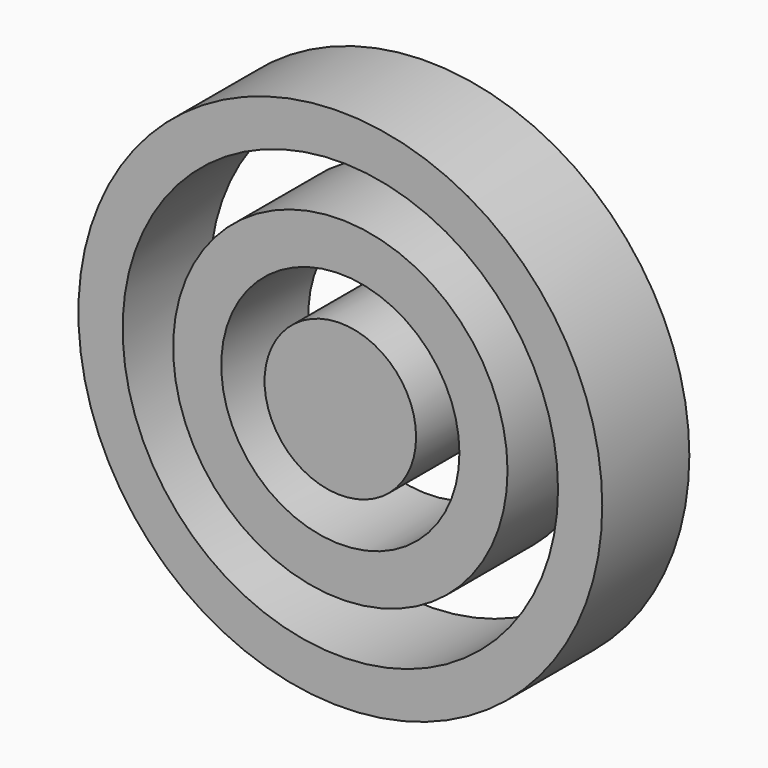
from build123d import *

# Parameters (mm, degrees)
F0_R     = 61.1158854905
F0_R_2   = 50.7952907718
F1_DEPTH = 25.4
F0_R_3   = 17.6761672641
F0_R_4   = 39.0121695128
F0_R_5   = 27.7868027827


with BuildPart() as f1:
    # F0 (on Front) → F1 (new body)
    with BuildSketch(Plane.XZ):
        with Locations((-42.0382060111, 34.7723402083)):
            Circle(F0_R)
        with Locations((-42.0382060111, 34.7723402083)):
            Circle(F0_R_2, mode=Mode.SUBTRACT)
    extrude(amount=F1_DEPTH)


with BuildPart() as f1b:
    # F0 (on Front) → F1, piece 2 (new body)
    with BuildSketch(Plane.XZ):
        with Locations((-42.0382060111, 34.7723402083)):
            Circle(F0_R_3)
    extrude(amount=F1_DEPTH)


with BuildPart() as f1c:
    # F0 (on Front) → F1, piece 3 (new body)
    with BuildSketch(Plane.XZ):
        with Locations((-42.0382060111, 34.7723402083)):
            Circle(F0_R_4)
        with Locations((-42.0382060111, 34.7723402083)):
            Circle(F0_R_5, mode=Mode.SUBTRACT)
    extrude(amount=F1_DEPTH)


solid = Compound([f1.part, f1b.part, f1c.part])
